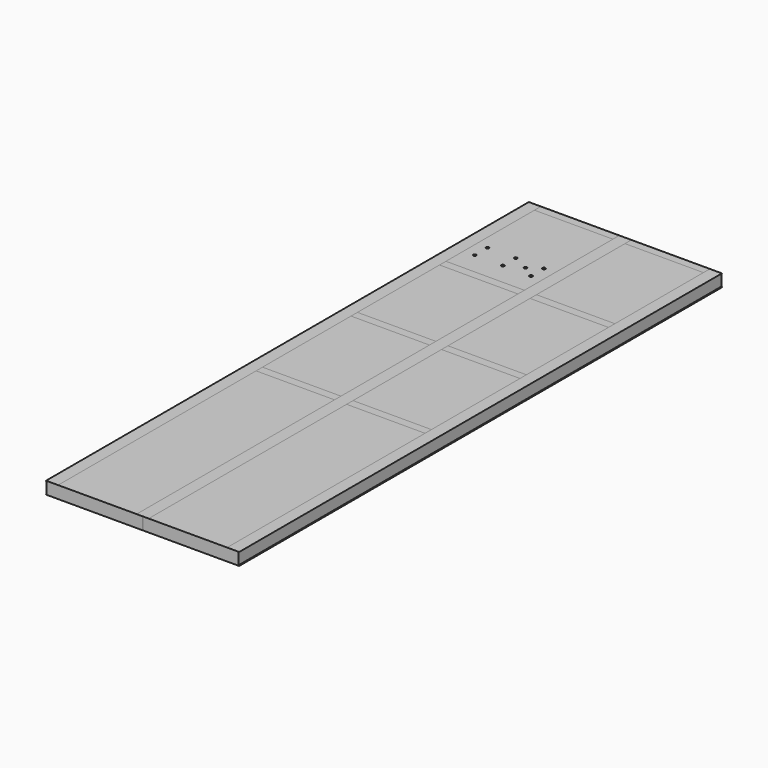
from build123d import *

# Parameters (mm, degrees)
F0_W      = 6.35
F0_H      = 142.875
F1_DEPTH  = 7620
F2_W      = 6.35
F2_H      = 142.875
F3_DEPTH  = 7620
F4_W      = 6.35
F4_H      = 142.875
F5_DEPTH  = 7620
F7_DEPTH  = 7620
F8_W      = 990.6
F8_H      = 101.6
F9_DEPTH  = 6.35
F10_R     = 19.05
F11_DEPTH = 155.576


with BuildPart() as f1:
    # F0 (on Front) → F1 (new body)
    with BuildSketch(Plane.XZ):
        Polygon((152.4, 0), (0, 0), (0, -6.35), (138.1125, -6.35), (144.4625, -6.35), (152.4, -6.35), align=None)
        with Locations((141.2875, -77.7875)):
            Rectangle(F0_W, F0_H)
        Polygon((144.4625, -149.225), (138.1125, -149.225), (0, -149.225), (0, -155.575), (152.4, -155.575), (152.4, -149.225), align=None)
    extrude(amount=F1_DEPTH)


with BuildPart() as f3:
    # F2 (on Front) → F3 (new body)
    with BuildSketch(Plane.XZ):
        Polygon((-2133.6, 0), (-2286, 0), (-2286, -6.35), (-2278.0625, -6.35), (-2271.7125, -6.35), (-2133.6, -6.35), align=None)
        with Locations((-2274.8875, -77.7875)):
            Rectangle(F2_W, F2_H)
        Polygon((-2271.7125, -149.225), (-2278.0625, -149.225), (-2286, -149.225), (-2286, -155.575), (-2133.6, -155.575), (-2133.6, -149.225), align=None)
    extrude(amount=F3_DEPTH)


with BuildPart() as f5:
    # F4 (on Front) → F5 (new body)
    with BuildSketch(Plane.XZ):
        Polygon((-990.6, 0), (-1143, 0), (-1143, -6.35), (-1069.975, -6.35), (-1063.625, -6.35), (-990.6, -6.35), align=None)
        with Locations((-1066.8, -77.7875)):
            Rectangle(F4_W, F4_H)
        Polygon((-1063.625, -149.225), (-1069.975, -149.225), (-1143, -149.225), (-1143, -155.575), (-990.6, -155.575), (-990.6, -149.225), align=None)
    extrude(amount=F5_DEPTH)


with BuildPart() as f7:
    # F6 (on Front) → F7 (new body)
    with BuildSketch(Plane.XZ):
        Polygon((0, -6.35), (0, 0), (-990.6, 0), (-990.6, -6.35), (-1063.625, -6.35), (-1063.625, -149.225), (-990.6, -149.225), (-990.6, -155.575), (0, -155.575), (0, -149.225), (138.1125, -149.225), (138.1125, -6.35), align=None)
        Polygon((-1143, -6.35), (-1143, 0), (-2133.6, 0), (-2133.6, -6.35), (-2271.7125, -6.35), (-2271.7125, -149.225), (-2133.6, -149.225), (-2133.6, -155.575), (-1143, -155.575), (-1143, -149.225), (-1069.975, -149.225), (-1069.975, -6.35), align=None)
    extrude(amount=F7_DEPTH)

    # F10 (on face) → F11 (cut, through all)
    with BuildSketch(Plane.XY):
        with Locations((-1993.9, -1016)):
            Circle(F10_R)
        with Locations((-1993.9, -1219.2)):
            Circle(F10_R)
        with Locations((-1638.3, -1016)):
            Circle(F10_R)
        with Locations((-1638.3, -1219.2)):
            Circle(F10_R)
        with Locations((-1282.7, -1016)):
            Circle(F10_R)
        with Locations((-1282.7, -1219.2)):
            Circle(F10_R)
        with Locations((-1435.1, -1117.6)):
            Circle(F10_R)
    extrude(amount=-F11_DEPTH, mode=Mode.SUBTRACT)


with BuildPart() as f9:
    # F8 (on face) → F9 (new body)
    with BuildSketch(Plane.XY):
        with Locations((-495.3, -1549.4)):
            Rectangle(F8_W, F8_H)
        with Locations((-1638.3, -1549.4)):
            Rectangle(F8_W, F8_H)
        with Locations((-1638.3, -50.8)):
            Rectangle(F8_W, F8_H)
        with Locations((-495.3, -50.8)):
            Rectangle(F8_W, F8_H)
        with Locations((-495.3, -2946.4)):
            Rectangle(F8_W, F8_H)
        with Locations((-1638.3, -2946.4)):
            Rectangle(F8_W, F8_H)
        with Locations((-495.3, -4445)):
            Rectangle(F8_W, F8_H)
        with Locations((-1638.3, -4445)):
            Rectangle(F8_W, F8_H)
    extrude(amount=-F9_DEPTH)


solid = Compound([f1.part, f3.part, f5.part, f7.part, f9.part])
